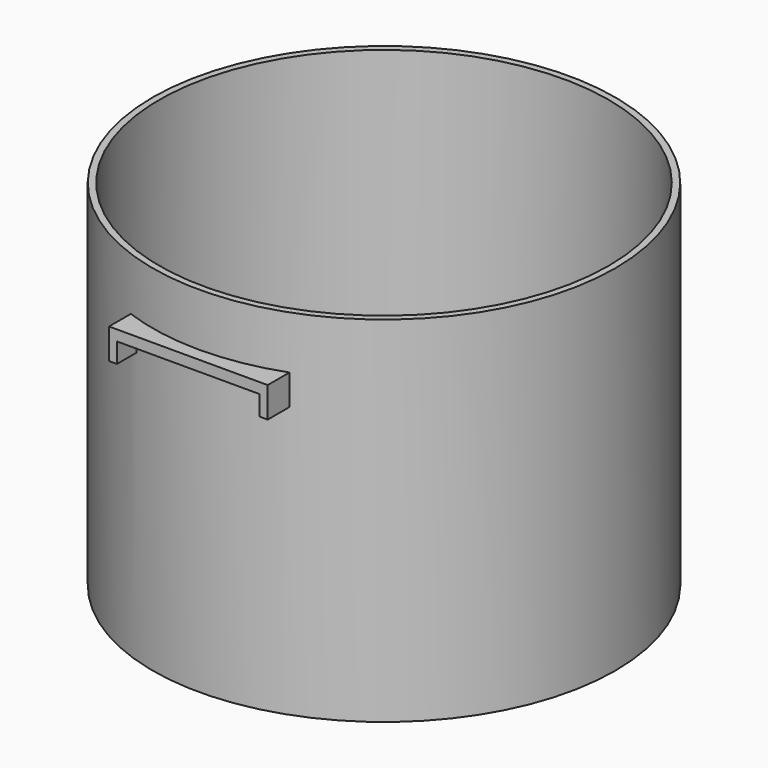
from build123d import *

# Parameters (mm, degrees)
F0_R     = 175
F1_DEPTH = 8
F2_R     = 175
F2_R_2   = 170
F3_DEPTH = 260
F4_R     = 80
F5_DEPTH = 100
F6_W     = 6
F6_H     = 15
F7_DEPTH = 185
F8_R     = 170
F9_DEPTH = 100


with BuildPart() as f1:
    # F0 (on Top) → F1 (new body)
    with BuildSketch(Plane.XY):
        Circle(F0_R)
    extrude(amount=F1_DEPTH)

    # F2 (on face) → F3 (join)
    with BuildSketch(Plane.XY.offset(8)):
        Circle(F2_R)
        Circle(F2_R_2, mode=Mode.SUBTRACT)
    extrude(amount=F3_DEPTH)

    # F4 (on face) → F5 (join)
    with BuildSketch(Plane.XY.offset(8)):
        Circle(F4_R)
    extrude(amount=F5_DEPTH)

    # F6 (on Front) → F7 (join, symmetric)
    with BuildSketch(Plane.XZ):
        Polygon((-54, 220), (0, 220), (0, 228), (-60, 228), (-60, 220), align=None)
        Polygon((0, 228), (0, 220), (54, 220), (60, 220), (60, 228), align=None)
        with Locations((-57, 212.5)):
            Rectangle(F6_W, F6_H)
        with Locations((57, 212.5)):
            Rectangle(F6_W, F6_H)
    extrude(amount=F7_DEPTH, both=True)

    # F8 (on face) → F9 (cut)
    with BuildSketch(Plane.XY.offset(268)):
        Circle(F8_R)
    extrude(amount=-F9_DEPTH, mode=Mode.SUBTRACT)


solid = f1.part
